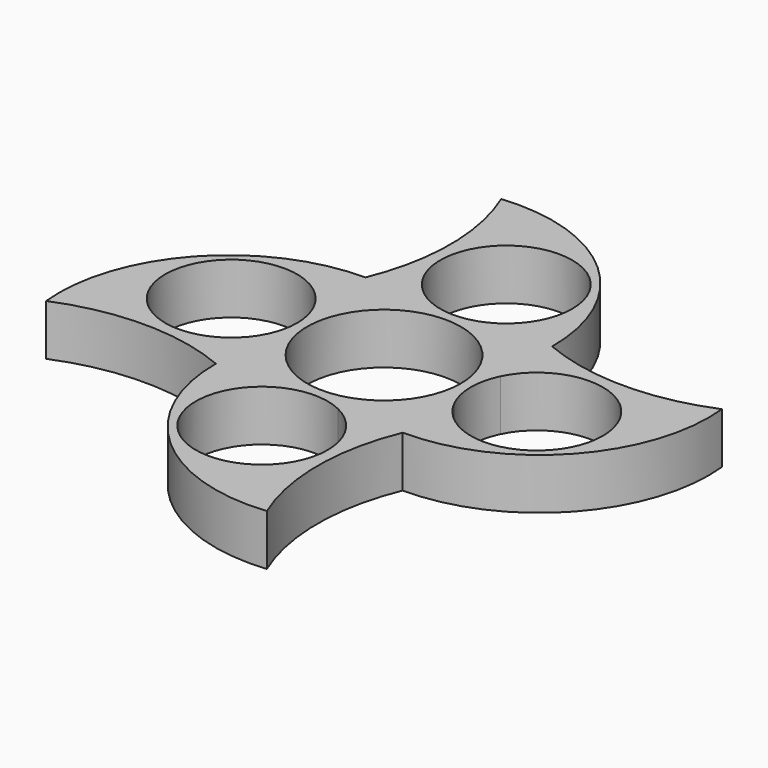
from build123d import *

# Parameters (mm, degrees)
F0_R     = 11.5
F1_DEPTH = 7.62


with BuildPart() as f1:
    # F0 (on Top) → F1 (new body)
    with BuildSketch(Plane.XY):
        with BuildLine():
            Line((13.97, -4.2829137757), (13.97, -13.97))
            ThreePointArc((13.97, -13.97), (32.8918290507, -5.6562082279), (39.37, 13.97))
            ThreePointArc((39.37, 13.97), (26.67, 11.43), (13.97, 13.97))
            Line((13.97, 13.97), (13.97, 4.2829137757))
            ThreePointArc((13.97, 4.2829137757), (25.0565677101, 9.6203191582), (32.7279, 0))
            ThreePointArc((32.7279, 0), (25.0565677101, -9.6203191582), (13.97, -4.2829137757))
        make_face()
        with BuildLine():
            Line((4.2829137757, 13.97), (13.97, 13.97))
            ThreePointArc((13.97, 13.97), (5.6562082279, 32.8918290507), (-13.97, 39.37))
            ThreePointArc((-13.97, 39.37), (-11.43, 26.67), (-13.97, 13.97))
            Line((-13.97, 13.97), (-4.2829137757, 13.97))
            ThreePointArc((-4.2829137757, 13.97), (-5.2493849908, 31.2158008371), (9.8679, 22.86))
            ThreePointArc((9.8679, 22.86), (8.3558008371, 17.6106150092), (4.2829137757, 13.97))
        make_face()
        with BuildLine():
            ThreePointArc((-39.37, -13.97), (-26.67, -11.43), (-13.97, -13.97))
            Line((-13.97, -13.97), (-13.97, -4.2829137757))
            ThreePointArc((-13.97, -4.2829137757), (-32.7279, 0), (-13.97, 4.2829137757))
            Line((-13.97, 4.2829137757), (-13.97, 13.97))
            ThreePointArc((-13.97, 13.97), (-32.8918290507, 5.6562082279), (-39.37, -13.97))
        make_face()
        with BuildLine():
            Line((4.2829137757, -13.97), (13.97, -13.97))
            Line((13.97, -13.97), (13.97, -4.2829137757))
            ThreePointArc((13.97, -4.2829137757), (12.9921, 0), (13.97, 4.2829137757))
            Line((13.97, 4.2829137757), (13.97, 13.97))
            Line((13.97, 13.97), (4.2829137757, 13.97))
            ThreePointArc((4.2829137757, 13.97), (0, 12.9921), (-4.2829137757, 13.97))
            Line((-4.2829137757, 13.97), (-13.97, 13.97))
            Line((-13.97, 13.97), (-13.97, 4.2829137757))
            ThreePointArc((-13.97, 4.2829137757), (-13.2396808418, 2.1965677101), (-12.9921, 0))
            ThreePointArc((-12.9921, 0), (-13.2396808418, -2.1965677101), (-13.97, -4.2829137757))
            Line((-13.97, -4.2829137757), (-13.97, -13.97))
            Line((-13.97, -13.97), (-4.2829137757, -13.97))
            ThreePointArc((-4.2829137757, -13.97), (0, -12.9921), (4.2829137757, -13.97))
        make_face()
        Circle(F0_R, mode=Mode.SUBTRACT)
        with BuildLine():
            ThreePointArc((13.97, -39.37), (11.43, -26.67), (13.97, -13.97))
            Line((13.97, -13.97), (4.2829137757, -13.97))
            ThreePointArc((4.2829137757, -13.97), (8.3558008371, -17.6106150092), (9.8679, -22.86))
            ThreePointArc((9.8679, -22.86), (-5.2493849908, -31.2158008371), (-4.2829137757, -13.97))
            Line((-4.2829137757, -13.97), (-13.97, -13.97))
            ThreePointArc((-13.97, -13.97), (-5.6562082279, -32.8918290507), (13.97, -39.37))
        make_face()
    extrude(amount=F1_DEPTH)


solid = f1.part
